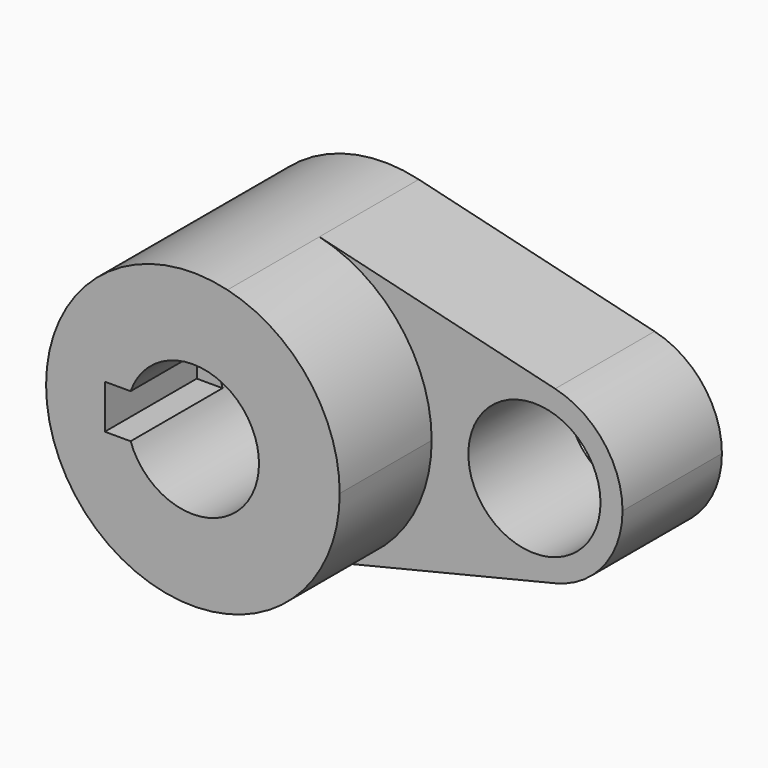
from build123d import *

# Parameters (mm, degrees)
F0_R     = 14.2875
F1_DEPTH = 26.86787
F2_DEPTH = 51.72178


with BuildPart() as f1:
    # F0 (on Front) → F1 (new body)
    with BuildSketch(Plane.XZ):
        with BuildLine():
            ThreePointArc((7.470588, -30.858594), (24.952492, -19.632515), (31.75, 0))
            ThreePointArc((31.75, 0), (24.952492, 19.632515), (7.470588, 30.858594))
            ThreePointArc((7.470588, 30.858594), (-31.75, 0), (7.470588, -30.858594))
        make_face()
        with BuildLine():
            ThreePointArc((-13.470384, 4.7625), (0, 14.2875), (13.470384, 4.7625))
            Line((13.470384, 4.7625), (19.05, 4.7625))
            Line((19.05, 4.7625), (19.05, -4.7625))
            Line((19.05, -4.7625), (13.470384, -4.7625))
            ThreePointArc((13.470384, -4.7625), (0, -14.2875), (-13.470384, -4.7625))
            Line((-13.470384, -4.7625), (-19.05, -4.7625))
            Line((-19.05, -4.7625), (-19.05, 4.7625))
            Line((-19.05, 4.7625), (-13.470384, 4.7625))
        make_face(mode=Mode.SUBTRACT)
        with BuildLine():
            ThreePointArc((13.470384, 4.7625), (14.081739, 2.416045), (14.2875, 0))
            ThreePointArc((14.2875, 0), (14.081739, -2.416045), (13.470384, -4.7625))
            Line((13.470384, -4.7625), (19.05, -4.7625))
            Line((19.05, -4.7625), (19.05, 4.7625))
            Line((19.05, 4.7625), (13.470384, 4.7625))
        make_face()
        with BuildLine():
            ThreePointArc((73.025, 0), (68.946495, 11.779509), (58.457353, 18.515156))
            ThreePointArc((58.457353, 18.515156), (34.925, 0), (58.457353, -18.515156))
            ThreePointArc((58.457353, -18.515156), (68.946495, -11.779509), (73.025, 0))
        make_face()
        with Locations((53.975, 0)):
            Circle(F0_R, mode=Mode.SUBTRACT)
        with BuildLine():
            ThreePointArc((7.470588, 30.858594), (24.952492, 19.632515), (31.75, 0))
            ThreePointArc((31.75, 0), (24.952492, -19.632515), (7.470588, -30.858594))
            Line((7.470588, -30.858594), (58.457353, -18.515156))
            ThreePointArc((58.457353, -18.515156), (34.925, 0), (58.457353, 18.515156))
            Line((58.457353, 18.515156), (7.470588, 30.858594))
        make_face()
        with BuildLine():
            ThreePointArc((-13.470384, -4.7625), (-14.2875, 0), (-13.470384, 4.7625))
            Line((-13.470384, 4.7625), (-19.05, 4.7625))
            Line((-19.05, 4.7625), (-19.05, -4.7625))
            Line((-19.05, -4.7625), (-13.470384, -4.7625))
        make_face()
    extrude(amount=F1_DEPTH)

    # F0 (on Front) → F2 (join)
    with BuildSketch(Plane.XZ):
        with BuildLine():
            ThreePointArc((7.470588, -30.858594), (24.952492, -19.632515), (31.75, 0))
            ThreePointArc((31.75, 0), (24.952492, 19.632515), (7.470588, 30.858594))
            ThreePointArc((7.470588, 30.858594), (-31.75, 0), (7.470588, -30.858594))
        make_face()
        with BuildLine():
            ThreePointArc((-13.470384, 4.7625), (0, 14.2875), (13.470384, 4.7625))
            Line((13.470384, 4.7625), (19.05, 4.7625))
            Line((19.05, 4.7625), (19.05, -4.7625))
            Line((19.05, -4.7625), (13.470384, -4.7625))
            ThreePointArc((13.470384, -4.7625), (0, -14.2875), (-13.470384, -4.7625))
            Line((-13.470384, -4.7625), (-19.05, -4.7625))
            Line((-19.05, -4.7625), (-19.05, 4.7625))
            Line((-19.05, 4.7625), (-13.470384, 4.7625))
        make_face(mode=Mode.SUBTRACT)
        with BuildLine():
            ThreePointArc((13.470384, 4.7625), (14.081739, 2.416045), (14.2875, 0))
            ThreePointArc((14.2875, 0), (14.081739, -2.416045), (13.470384, -4.7625))
            Line((13.470384, -4.7625), (19.05, -4.7625))
            Line((19.05, -4.7625), (19.05, 4.7625))
            Line((19.05, 4.7625), (13.470384, 4.7625))
        make_face()
    extrude(amount=F2_DEPTH)


solid = f1.part
